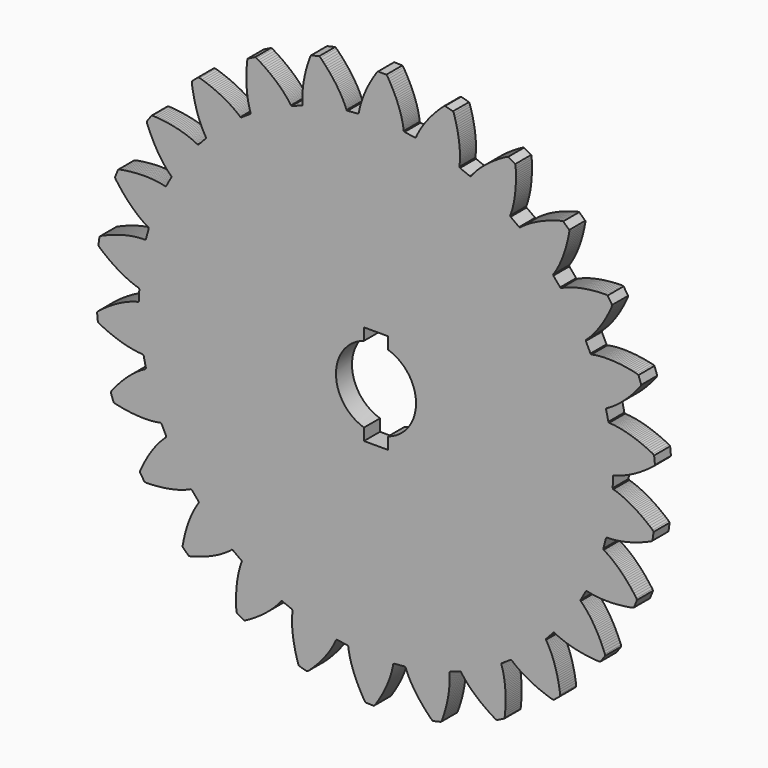
from build123d import *

# Parameters (mm, degrees)
F1_DEPTH = 5
F3_DEPTH = 5


with BuildPart() as f1:
    # F0 (on Front) → F1 (new body)
    with BuildSketch(Plane.XZ):
        Polygon((59.137695, -2.635742), (59.195801, -0.000977), (59.333496, 0.224121), (59.509765, 0.266113), (59.696289, 0.312988), (59.891113, 0.365234), (60.095703, 0.422851), (60.311035, 0.486328), (60.533691, 0.554687), (60.765625, 0.630859), (61.007324, 0.713379), (61.256836, 0.800781), (61.513672, 0.896972), (61.78125, 0.999023), (62.055664, 1.109863), (62.339844, 1.226562), (62.630371, 1.353515), (62.928711, 1.487793), (63.235351, 1.629394), (63.549316, 1.78125), (63.870605, 1.940918), (64.19873, 2.109375), (64.53418, 2.286621), (64.875976, 2.475586), (65.224121, 2.67334), (65.580078, 2.880371), (65.94043, 3.098144), (66.307129, 3.325683), (66.679199, 3.563965), (67.057617, 3.8125), (67.440918, 4.072754), (67.828613, 4.344238), (68.222168, 4.626465), (68.61914, 4.92041), (69.020508, 5.226074), (69.426269, 5.542969), (69.69043, 5.859863), (69.488769, 7.901367), (69.168457, 8.161133), (68.708496, 8.39209), (68.253906, 8.613769), (67.80664, 8.823242), (67.366211, 9.023437), (66.932129, 9.21289), (66.504883, 9.392578), (66.085937, 9.562988), (65.674316, 9.724121), (65.270019, 9.875), (64.873047, 10.017578), (64.485351, 10.152832), (64.104004, 10.277344), (63.73291, 10.394043), (63.36914, 10.503906), (63.013672, 10.605469), (62.666504, 10.69873), (62.330566, 10.785644), (62.001953, 10.865234), (61.682617, 10.938965), (61.373047, 11.005371), (61.072265, 11.064941), (60.780762, 11.119629), (60.499023, 11.167969), (60.227051, 11.210449), (59.96582, 11.248535), (59.712402, 11.282226), (59.470703, 11.310058), (59.238281, 11.334961), (59.015625, 11.35498), (58.803711, 11.371582), (58.601562, 11.384277), (58.410156, 11.393066), (58.228027, 11.399902), (58.050781, 11.592773), (57.476074, 14.166992), (57.555664, 14.41748), (57.717285, 14.5), (57.885742, 14.589844), (58.064453, 14.687011), (58.248535, 14.791504), (58.441406, 14.904297), (58.642578, 15.02539), (58.849609, 15.154297), (59.063476, 15.291504), (59.284668, 15.437011), (59.512695, 15.592285), (59.746582, 15.754394), (59.987305, 15.928222), (60.233887, 16.110351), (60.486328, 16.302734), (60.745117, 16.504394), (61.008301, 16.715332), (61.277344, 16.9375), (61.550293, 17.169922), (61.828613, 17.411621), (62.111328, 17.665039), (62.398437, 17.929687), (62.689453, 18.20459), (62.984375, 18.491699), (63.281738, 18.788086), (63.583984, 19.097168), (63.888183, 19.417969), (64.195801, 19.750488), (64.505859, 20.094238), (64.818847, 20.450683), (65.131836, 20.818847), (65.447265, 21.199707), (65.764648, 21.592285), (66.083496, 21.99707), (66.263183, 22.366699), (65.579101, 24.301758), (65.205566, 24.477051), (64.703125, 24.591797), (64.209961, 24.696777), (63.724609, 24.793945), (63.249023, 24.882324), (62.782226, 24.962402), (62.324219, 25.035644), (61.877441, 25.101074), (61.4375, 25.158691), (61.010254, 25.208984), (60.590332, 25.252929), (60.182129, 25.289062), (59.782226, 25.319824), (59.39209, 25.344238), (59.01416, 25.363769), (58.644531, 25.376465), (58.287109, 25.384765), (57.937988, 25.388183), (57.600586, 25.387207), (57.272461, 25.381347), (56.955566, 25.372558), (56.649902, 25.358886), (56.353515, 25.341308), (56.068847, 25.320801), (55.793945, 25.298828), (55.530762, 25.272461), (55.277344, 25.243652), (55.035644, 25.213867), (54.803711, 25.181152), (54.583008, 25.147461), (54.373535, 25.112793), (54.173828, 25.077636), (53.986328, 25.041015), (53.808594, 25.003906), (53.588867, 25.147461), (52.416504, 27.509765), (52.432617, 27.771484), (52.569336, 27.891113), (52.713379, 28.019043), (52.861816, 28.15625), (53.016601, 28.303222), (53.176269, 28.457519), (53.342285, 28.62207), (53.512207, 28.796875), (53.6875, 28.981933), (53.867187, 29.176269), (54.052246, 29.381347), (54.239746, 29.596191), (54.432617, 29.821777), (54.62793, 30.05664), (54.827148, 30.303222), (55.029785, 30.561523), (55.234863, 30.830566), (55.442871, 31.109863), (55.651855, 31.40039), (55.864746, 31.702148), (56.078613, 32.016601), (56.294433, 32.341308), (56.511719, 32.678222), (56.728027, 33.025879), (56.947265, 33.386719), (57.166504, 33.759277), (57.385254, 34.142578), (57.604004, 34.539551), (57.823242, 34.947754), (58.041015, 35.367676), (58.256836, 35.800293), (58.473144, 36.245605), (58.686035, 36.703125), (58.898437, 37.171875), (58.984863, 37.575683), (57.858398, 39.289551), (57.452637, 39.370605), (56.9375, 39.361328), (56.432617, 39.345703), (55.939453, 39.32373), (55.456543, 39.296386), (54.984375, 39.261719), (54.522949, 39.223144), (54.071777, 39.179199), (53.632324, 39.129883), (53.204101, 39.07666), (52.786133, 39.018066), (52.379883, 38.957031), (51.98584, 38.891113), (51.600586, 38.821289), (51.228515, 38.749511), (50.868164, 38.674316), (50.517578, 38.597168), (50.177246, 38.515625), (49.850097, 38.434082), (49.533691, 38.350097), (49.229004, 38.265136), (48.934082, 38.178711), (48.651367, 38.09082), (48.379883, 38.003906), (48.118652, 37.915527), (47.867676, 37.82666), (47.629394, 37.738769), (47.401855, 37.652344), (47.18457, 37.564941), (46.978027, 37.479492), (46.783203, 37.395996), (46.598144, 37.312988), (46.424316, 37.23291), (46.26123, 37.154297), (46.013183, 37.242676), (44.310058, 39.253906), (44.263672, 39.513183), (44.367676, 39.660644), (44.476074, 39.820312), (44.586914, 39.987793), (44.702148, 40.16748), (44.821289, 40.356445), (44.941406, 40.555664), (45.06543, 40.766601), (45.191894, 40.988281), (45.318847, 41.219238), (45.450195, 41.46289), (45.581543, 41.716308), (45.714355, 41.980957), (45.848144, 42.257324), (45.981933, 42.543945), (46.117187, 42.843261), (46.251953, 43.152344), (46.386719, 43.474121), (46.521484, 43.807129), (46.654785, 44.150879), (46.787109, 44.505859), (46.91748, 44.873535), (47.04834, 45.251953), (47.176758, 45.643066), (47.301758, 46.044433), (47.425781, 46.458496), (47.546875, 46.884277), (47.664062, 47.321289), (47.77832, 47.770019), (47.889648, 48.22998), (47.997558, 48.702636), (48.099609, 49.185547), (48.198242, 49.681152), (48.291504, 50.1875), (48.27832, 50.598633), (46.773926, 51.994629), (46.361816, 51.975097), (45.862793, 51.843261), (45.376953, 51.708008), (44.902344, 51.567871), (44.44043, 51.425293), (43.990234, 51.280273), (43.550781, 51.131347), (43.125, 50.981933), (42.709472, 50.828125), (42.30664, 50.673828), (41.915039, 50.51709), (41.535644, 50.36084), (41.167969, 50.201172), (40.811035, 50.042969), (40.467285, 49.884277), (40.133301, 49.724121), (39.812988, 49.564453), (39.502441, 49.405761), (39.204101, 49.247558), (38.916992, 49.090332), (38.640137, 48.934082), (38.375488, 48.780273), (38.121582, 48.627441), (37.878418, 48.477051), (37.645508, 48.328613), (37.424805, 48.183105), (37.213867, 48.041015), (37.013672, 47.901855), (36.824219, 47.766113), (36.645019, 47.633789), (36.474609, 47.504883), (36.314941, 47.380859), (36.165527, 47.260742), (36.02539, 47.145996), (35.76416, 47.171875), (33.62793, 48.717773), (33.521484, 48.957519), (33.586914, 49.126465), (33.654297, 49.306152), (33.721191, 49.496582), (33.790527, 49.69873), (33.86084, 49.910644), (33.930176, 50.133301), (34, 50.367676), (34.069824, 50.612304), (34.138183, 50.867676), (34.206543, 51.133789), (34.273926, 51.412597), (34.338867, 51.70166), (34.402344, 52.001465), (34.463379, 52.312011), (34.524902, 52.633301), (34.580566, 52.966797), (34.634765, 53.311035), (34.685058, 53.666504), (34.732422, 54.032226), (34.776855, 54.409668), (34.816406, 54.797851), (34.851562, 55.196777), (34.882812, 55.606933), (34.908691, 56.027344), (34.930176, 56.458984), (34.945312, 56.900879), (34.95459, 57.353027), (34.958984, 57.815429), (34.956055, 58.289551), (34.946777, 58.772949), (34.931152, 59.26709), (34.907715, 59.771972), (34.877441, 60.286621), (34.766601, 60.682617), (32.971191, 61.677246), (32.575195, 61.560058), (32.124512, 61.312988), (31.684082, 61.064453), (31.256836, 60.816894), (30.841797, 60.566894), (30.439453, 60.317383), (30.048828, 60.067871), (29.67041, 59.820312), (29.304687, 59.572265), (28.950195, 59.325683), (28.606933, 59.081054), (28.276855, 58.836914), (27.957031, 58.595215), (27.649414, 58.355957), (27.353515, 58.117676), (27.068359, 57.883301), (26.794433, 57.652344), (26.53125, 57.424316), (26.279297, 57.197754), (26.038086, 56.977051), (25.80664, 56.760254), (25.585937, 56.546386), (25.375976, 56.337402), (25.175781, 56.133301), (24.985351, 55.934082), (24.806152, 55.739746), (24.63623, 55.550781), (24.474609, 55.368164), (24.323242, 55.190429), (24.179687, 55.019043), (24.046387, 54.853027), (23.92041, 54.694824), (23.803711, 54.54248), (23.694824, 54.397461), (23.436523, 54.359863), (20.991699, 55.349609), (20.831055, 55.557129), (20.854492, 55.736816), (20.875488, 55.927246), (20.895996, 56.128418), (20.915527, 56.341308), (20.93164, 56.562988), (20.946289, 56.795898), (20.958984, 57.040527), (20.967285, 57.294433), (20.972656, 57.55957), (20.975586, 57.835449), (20.974121, 58.120117), (20.968262, 58.416992), (20.958984, 58.723144), (20.943359, 59.040039), (20.924316, 59.366699), (20.90039, 59.703613), (20.86914, 60.050781), (20.834472, 60.407715), (20.79248, 60.774414), (20.745117, 61.150879), (20.690918, 61.537109), (20.629883, 61.932617), (20.562012, 62.338379), (20.48584, 62.753418), (20.40332, 63.177246), (20.312012, 63.609863), (20.21289, 64.052246), (20.106445, 64.502441), (19.991211, 64.961914), (19.865234, 65.428711), (19.731933, 65.904785), (19.588867, 66.38916), (19.436035, 66.880371), (19.23291, 67.238769), (17.251953, 67.77539), (16.895996, 67.566894), (16.517578, 67.21875), (16.15039, 66.872558), (15.794922, 66.528808), (15.451172, 66.187988), (15.120605, 65.848633), (14.800293, 65.515136), (14.492676, 65.182617), (14.196777, 64.854004), (13.911133, 64.529785), (13.637207, 64.209961), (13.375, 63.893066), (13.122558, 63.583496), (12.880859, 63.276367), (12.649902, 62.975097), (12.429199, 62.679199), (12.21875, 62.388672), (12.017578, 62.10498), (11.827148, 61.825195), (11.645508, 61.552246), (11.473144, 61.285644), (11.310058, 61.025879), (11.156738, 60.773437), (11.010742, 60.526855), (10.874512, 60.288574), (10.745605, 60.057129), (10.625488, 59.832519), (10.512695, 59.616211), (10.407715, 59.407226), (10.310547, 59.207031), (10.219238, 59.01416), (10.13623, 58.82959), (10.059082, 58.653808), (9.989258, 58.487793), (9.746094, 58.387695), (7.13623, 58.765136), (6.930664, 58.926758), (6.909668, 59.108886), (6.885254, 59.29834), (6.856445, 59.499023), (6.824219, 59.708496), (6.787598, 59.929687), (6.745117, 60.158691), (6.69873, 60.398926), (6.645996, 60.646972), (6.588379, 60.905761), (6.52539, 61.17334), (6.455078, 61.451172), (6.378906, 61.736328), (6.29541, 62.032715), (6.205566, 62.336426), (6.109375, 62.649414), (6.003906, 62.971191), (5.892578, 63.300293), (5.771973, 63.638183), (5.644043, 63.984375), (5.506836, 64.338867), (5.361816, 64.701172), (5.208984, 65.070801), (5.045898, 65.447754), (4.872558, 65.832519), (4.69043, 66.223633), (4.499023, 66.622558), (4.297363, 67.027832), (4.085449, 67.439453), (3.863281, 67.856933), (3.629883, 68.281738), (3.38623, 68.711914), (3.131836, 69.148437), (2.866211, 69.588867), (2.583008, 69.888672), (0.53125, 69.93457), (0.23584, 69.647461), (-0.048828, 69.217285), (-0.323242, 68.793945), (-0.586426, 68.375976), (-0.837402, 67.962402), (-1.078613, 67.554199), (-1.309082, 67.152344), (-1.527832, 66.757324), (-1.736817, 66.367187), (-1.936035, 65.983886), (-2.125488, 65.607422), (-2.305664, 65.237304), (-2.475586, 64.875488), (-2.636719, 64.519531), (-2.788574, 64.172851), (-2.931641, 63.831543), (-3.067383, 63.499511), (-3.194336, 63.176269), (-3.311524, 62.859375), (-3.42334, 62.550293), (-3.526367, 62.250976), (-3.622559, 61.960449), (-3.712402, 61.677734), (-3.793945, 61.404297), (-3.868652, 61.138672), (-3.938477, 60.882812), (-4.002442, 60.636719), (-4.060059, 60.399902), (-4.111328, 60.172363), (-4.158203, 59.953125), (-4.200195, 59.745117), (-4.236817, 59.54541), (-4.269531, 59.356933), (-4.298828, 59.178222), (-4.511231, 59.023926), (-7.135742, 58.765136), (-7.374024, 58.873535), (-7.436524, 59.042969), (-7.50586, 59.223144), (-7.581055, 59.410156), (-7.663574, 59.606445), (-7.751953, 59.811523), (-7.847656, 60.024414), (-7.951172, 60.246582), (-8.060547, 60.475586), (-8.178711, 60.71289), (-8.305176, 60.957519), (-8.438477, 61.209961), (-8.581055, 61.469238), (-8.731934, 61.736328), (-8.892578, 62.010254), (-9.061035, 62.290527), (-9.240235, 62.577148), (-9.427735, 62.871094), (-9.625488, 63.17041), (-9.83252, 63.476562), (-10.050781, 63.787597), (-10.277344, 64.103515), (-10.515625, 64.426758), (-10.764649, 64.753906), (-11.023438, 65.084961), (-11.294434, 65.421386), (-11.575195, 65.763183), (-11.868164, 66.108398), (-12.172363, 66.457519), (-12.487793, 66.810547), (-12.816406, 67.166504), (-13.155274, 67.524902), (-13.507324, 67.888183), (-13.870606, 68.252441), (-14.217774, 68.476074), (-16.219727, 68.029785), (-16.438965, 67.680176), (-16.612793, 67.195312), (-16.776367, 66.717773), (-16.932129, 66.248535), (-17.077637, 65.786621), (-17.213867, 65.333496), (-17.34082, 64.888183), (-17.458496, 64.451172), (-17.569336, 64.023437), (-17.67041, 63.603027), (-17.764649, 63.191894), (-17.850586, 62.790527), (-17.929688, 62.397949), (-18, 62.01416), (-18.06543, 61.639648), (-18.123047, 61.275879), (-18.174805, 60.92041), (-18.220215, 60.575195), (-18.260742, 60.239746), (-18.292969, 59.913574), (-18.321289, 59.597168), (-18.345703, 59.29248), (-18.36377, 58.996094), (-18.37793, 58.710937), (-18.388672, 58.436035), (-18.39502, 58.171386), (-18.397949, 57.916992), (-18.396485, 57.67334), (-18.392578, 57.438965), (-18.385742, 57.216308), (-18.375977, 57.002929), (-18.364258, 56.801758), (-18.350586, 56.609863), (-18.335449, 56.429687), (-18.50586, 56.229004), (-20.991699, 55.349609), (-21.249512, 55.398437), (-21.350586, 55.54834), (-21.460449, 55.70459), (-21.579102, 55.870117), (-21.706055, 56.041015), (-21.840332, 56.219238), (-21.983887, 56.402344), (-22.137695, 56.592773), (-22.299805, 56.788086), (-22.470703, 56.991699), (-22.650879, 57.19873), (-22.842774, 57.411621), (-23.042481, 57.629394), (-23.253906, 57.852051), (-23.474121, 58.080078), (-23.705567, 58.311523), (-23.947266, 58.547851), (-24.200195, 58.787597), (-24.463379, 59.031738), (-24.737793, 59.277832), (-25.023438, 59.528808), (-25.319824, 59.781738), (-25.62793, 60.037109), (-25.947754, 60.29541), (-26.279785, 60.556152), (-26.62207, 60.818359), (-26.977051, 61.081543), (-27.344238, 61.347168), (-27.723145, 61.613281), (-28.114258, 61.879883), (-28.51709, 62.146972), (-28.932617, 62.414551), (-29.361328, 62.682129), (-29.802246, 62.950195), (-30.191895, 63.083496), (-32.028809, 62.17041), (-32.157227, 61.779785), (-32.209961, 61.26709), (-32.256348, 60.763672), (-32.293945, 60.270996), (-32.325684, 59.788574), (-32.348633, 59.315918), (-32.366211, 58.853027), (-32.375977, 58.399902), (-32.38086, 57.957519), (-32.378906, 57.526367), (-32.37207, 57.10498), (-32.359375, 56.693847), (-32.341309, 56.293945), (-32.318848, 55.904785), (-32.291992, 55.52539), (-32.260742, 55.158203), (-32.225098, 54.801758), (-32.1875, 54.455078), (-32.14502, 54.119629), (-32.100586, 53.79541), (-32.052246, 53.481933), (-32.001953, 53.179199), (-31.949219, 52.887695), (-31.89502, 52.606933), (-31.838867, 52.336914), (-31.781738, 52.078613), (-31.723145, 51.831543), (-31.663086, 51.594726), (-31.604492, 51.368164), (-31.543945, 51.153808), (-31.483887, 50.949707), (-31.424317, 50.755859), (-31.365235, 50.57373), (-31.307617, 50.401855), (-31.425293, 50.166504), (-33.62793, 48.717773), (-33.889649, 48.703613), (-34.024414, 48.824219), (-34.168945, 48.950195), (-34.323242, 49.082519), (-34.48584, 49.218261), (-34.660156, 49.357422), (-34.84375, 49.502441), (-35.038086, 49.65039), (-35.242188, 49.802734), (-35.456543, 49.958008), (-35.681641, 50.116211), (-35.917481, 50.276855), (-36.165527, 50.440429), (-36.423828, 50.606445), (-36.691406, 50.774902), (-36.971192, 50.944336), (-37.262695, 51.116211), (-37.56543, 51.288086), (-37.878906, 51.461426), (-38.205567, 51.635254), (-38.542481, 51.810547), (-38.891113, 51.985351), (-39.250977, 52.159668), (-39.624024, 52.333496), (-40.008301, 52.507324), (-40.403809, 52.680176), (-40.811035, 52.851074), (-41.231445, 53.020508), (-41.662598, 53.187988), (-42.106934, 53.353027), (-42.561035, 53.516601), (-43.029785, 53.677734), (-43.508789, 53.833984), (-44.000977, 53.988769), (-44.411133, 54.02539), (-45.977051, 52.69873), (-46.008789, 52.286621), (-45.937012, 51.77832), (-45.861328, 51.278808), (-45.779785, 50.790527), (-45.693848, 50.314453), (-45.604004, 49.849609), (-45.509766, 49.396972), (-45.411133, 48.95459), (-45.310059, 48.524902), (-45.20459, 48.105469), (-45.09668, 47.69873), (-44.986328, 47.302246), (-44.873535, 46.918457), (-44.758789, 46.544922), (-44.641602, 46.18457), (-44.523438, 45.834472), (-44.403809, 45.496582), (-44.28418, 45.169922), (-44.163086, 44.853515), (-44.041016, 44.549804), (-43.92041, 44.256836), (-43.799317, 43.974121), (-43.677735, 43.705078), (-43.557617, 43.445312), (-43.438965, 43.197265), (-43.320801, 42.959472), (-43.205078, 42.73291), (-43.09082, 42.51709), (-42.979492, 42.3125), (-42.869141, 42.117676), (-42.761719, 41.934082), (-42.657227, 41.761719), (-42.557129, 41.598144), (-42.458985, 41.444824), (-42.51709, 41.187988), (-44.30957, 39.253906), (-44.561035, 39.177246), (-44.720703, 39.262207), (-44.890625, 39.351562), (-45.071289, 39.441894), (-45.262695, 39.534179), (-45.464356, 39.629394), (-45.677246, 39.725097), (-45.901856, 39.822754), (-46.135742, 39.921386), (-46.382324, 40.020508), (-46.638184, 40.120605), (-46.90625, 40.220215), (-47.185059, 40.319824), (-47.475586, 40.419433), (-47.776856, 40.518066), (-48.088867, 40.615722), (-48.412598, 40.71289), (-48.748047, 40.807129), (-49.094238, 40.900879), (-49.452637, 40.992187), (-49.820801, 41.082031), (-50.201172, 41.16748), (-50.593262, 41.25), (-50.996094, 41.330078), (-51.411133, 41.407226), (-51.836426, 41.47998), (-52.273438, 41.548828), (-52.720703, 41.612304), (-53.180176, 41.671386), (-53.650879, 41.726074), (-54.132324, 41.775879), (-54.625, 41.819824), (-55.12793, 41.857422), (-55.642578, 41.88916), (-56.049805, 41.827148), (-57.251953, 40.165039), (-57.185059, 39.758789), (-56.994141, 39.279785), (-56.799317, 38.812988), (-56.604492, 38.358886), (-56.407227, 37.91748), (-56.208496, 37.488281), (-56.008789, 37.070312), (-55.807617, 36.664551), (-55.605469, 36.270996), (-55.40332, 35.889648), (-55.201172, 35.520019), (-54.999024, 35.161621), (-54.797852, 34.815918), (-54.597168, 34.481445), (-54.397949, 34.158203), (-54.198242, 33.846679), (-54.000977, 33.546875), (-53.806152, 33.259277), (-53.613281, 32.981933), (-53.42334, 32.714844), (-53.235352, 32.459472), (-53.050293, 32.215332), (-52.868164, 31.982422), (-52.689453, 31.759277), (-52.51416, 31.546386), (-52.34375, 31.342773), (-52.176758, 31.151367), (-52.013184, 30.970215), (-51.856445, 30.797363), (-51.703125, 30.635254), (-51.554688, 30.481933), (-51.412598, 30.338379), (-51.275391, 30.203613), (-51.143555, 30.07959), (-51.138184, 29.816894), (-52.416016, 27.509765), (-52.641113, 27.375), (-52.817383, 27.419922), (-53.003418, 27.464355), (-53.200684, 27.509765), (-53.40918, 27.553711), (-53.62793, 27.597656), (-53.857422, 27.63916), (-54.098145, 27.681152), (-54.34961, 27.719726), (-54.611817, 27.757812), (-54.884277, 27.79248), (-55.168945, 27.82666), (-55.463867, 27.855957), (-55.768067, 27.883789), (-56.084961, 27.906738), (-56.41211, 27.926758), (-56.749512, 27.943847), (-57.097656, 27.955566), (-57.455078, 27.963867), (-57.825195, 27.966308), (-58.205078, 27.963867), (-58.595215, 27.956054), (-58.995606, 27.943847), (-59.405762, 27.924804), (-59.826172, 27.899902), (-60.256836, 27.86914), (-60.697754, 27.831054), (-61.147949, 27.786133), (-61.60791, 27.734375), (-62.078125, 27.674316), (-62.556641, 27.606933), (-63.04541, 27.531738), (-63.543457, 27.448242), (-64.050781, 27.356445), (-64.432129, 27.197754), (-65.20166, 25.296875), (-65.037598, 24.91748), (-64.737305, 24.498047), (-64.438965, 24.091797), (-64.140137, 23.698242), (-63.842774, 23.316894), (-63.546875, 22.947265), (-63.252442, 22.589355), (-62.959961, 22.243652), (-62.67041, 21.909668), (-62.382813, 21.587402), (-62.098145, 21.276855), (-61.815918, 20.978515), (-61.537598, 20.689453), (-61.262695, 20.413574), (-60.991699, 20.147949), (-60.72461, 19.893554), (-60.461426, 19.648926), (-60.203125, 19.416015), (-59.948731, 19.192383), (-59.700195, 18.979492), (-59.456055, 18.776367), (-59.218262, 18.583008), (-58.984863, 18.400879), (-58.759277, 18.225586), (-58.53711, 18.062011), (-58.323731, 17.90625), (-58.114746, 17.759765), (-57.913574, 17.622558), (-57.719727, 17.492676), (-57.532715, 17.371582), (-57.352051, 17.258789), (-57.179199, 17.152832), (-57.013672, 17.055664), (-56.856934, 16.966308), (-56.788086, 16.711914), (-57.476074, 14.166992), (-57.66211, 13.981445), (-57.84375, 13.983886), (-58.036621, 13.982422), (-58.23877, 13.977539), (-58.451172, 13.971191), (-58.674317, 13.961914), (-58.907227, 13.947265), (-59.150391, 13.929199), (-59.403809, 13.907715), (-59.666992, 13.881836), (-59.941895, 13.850097), (-60.224121, 13.813965), (-60.518555, 13.772949), (-60.820313, 13.726074), (-61.133789, 13.673828), (-61.456055, 13.615234), (-61.787598, 13.550781), (-62.128906, 13.479492), (-62.478027, 13.40039), (-62.838379, 13.314941), (-63.206543, 13.222656), (-63.583008, 13.122558), (-63.968262, 13.013183), (-64.362305, 12.896484), (-64.765137, 12.771972), (-65.175781, 12.638672), (-65.594238, 12.496582), (-66.021485, 12.345215), (-66.455078, 12.184082), (-66.896485, 12.01416), (-67.345703, 11.834472), (-67.802246, 11.644043), (-68.266113, 11.442871), (-68.736328, 11.23291), (-69.06836, 10.987793), (-69.361328, 8.957519), (-69.111328, 8.629394), (-68.720215, 8.293945), (-68.331055, 7.971679), (-67.946777, 7.660156), (-67.567871, 7.359863), (-67.191895, 7.072754), (-66.820313, 6.794922), (-66.454102, 6.528808), (-66.092285, 6.274902), (-65.736817, 6.030761), (-65.385742, 5.797363), (-65.040527, 5.574219), (-64.702149, 5.361816), (-64.367676, 5.158203), (-64.041016, 4.96582), (-63.720215, 4.783203), (-63.40625, 4.60791), (-63.100586, 4.444336), (-62.799805, 4.288086), (-62.507324, 4.140625), (-62.222168, 4.002441), (-61.944336, 3.871094), (-61.675293, 3.748535), (-61.413574, 3.634765), (-61.159668, 3.527832), (-60.913574, 3.427734), (-60.676758, 3.335449), (-60.448242, 3.249511), (-60.229004, 3.171386), (-60.017578, 3.099121), (-59.814942, 3.032226), (-59.622559, 2.970703), (-59.438965, 2.915527), (-59.264649, 2.865722), (-59.136719, 2.635742), (-59.195801, -0.000977), (-59.333008, -0.22461), (-59.509277, -0.266602), (-59.695801, -0.313477), (-59.891113, -0.365235), (-60.096192, -0.422852), (-60.310547, -0.486817), (-60.532715, -0.555176), (-60.764649, -0.63086), (-61.006836, -0.712403), (-61.256836, -0.800781), (-61.514649, -0.897461), (-61.780762, -0.999024), (-62.055664, -1.109864), (-62.338867, -1.227539), (-62.629883, -1.354004), (-62.928223, -1.487793), (-63.234375, -1.629883), (-63.549317, -1.781739), (-63.869629, -1.940918), (-64.198242, -2.110352), (-64.533203, -2.287598), (-64.875, -2.476074), (-65.223633, -2.67334), (-65.578613, -2.881348), (-65.939942, -3.099121), (-66.305664, -3.325684), (-66.678223, -3.563965), (-67.056152, -3.813477), (-67.44043, -4.073242), (-67.828125, -4.344727), (-68.221192, -4.626953), (-68.618652, -4.92041), (-69.02002, -5.226074), (-69.42627, -5.542969), (-69.69043, -5.86084), (-69.48877, -7.901856), (-69.167969, -8.161133), (-68.708008, -8.392578), (-68.254395, -8.61377), (-67.805664, -8.824707), (-67.365723, -9.024414), (-66.932129, -9.213379), (-66.504883, -9.393555), (-66.085938, -9.563965), (-65.67334, -9.72461), (-65.269531, -9.875489), (-64.873047, -10.018067), (-64.484375, -10.152832), (-64.103516, -10.277344), (-63.731934, -10.39502), (-63.368652, -10.504883), (-63.013184, -10.604981), (-62.667481, -10.699219), (-62.329102, -10.785645), (-62.001465, -10.865723), (-61.681641, -10.938965), (-61.372559, -11.004883), (-61.071289, -11.06543), (-60.780274, -11.119629), (-60.498535, -11.167969), (-60.226074, -11.210938), (-59.964844, -11.248535), (-59.711914, -11.282715), (-59.470215, -11.310059), (-59.237793, -11.334961), (-59.015137, -11.355469), (-58.802735, -11.371582), (-58.601074, -11.384278), (-58.409668, -11.394043), (-58.227539, -11.400391), (-58.049805, -11.592774), (-57.476074, -14.166992), (-57.555664, -14.417481), (-57.716797, -14.5), (-57.886231, -14.589844), (-58.063477, -14.687989), (-58.248535, -14.791992), (-58.441406, -14.905274), (-58.641602, -15.026367), (-58.848633, -15.154297), (-59.062988, -15.291504), (-59.284668, -15.437989), (-59.512695, -15.592285), (-59.746094, -15.754883), (-59.987305, -15.928223), (-60.233887, -16.11084), (-60.486328, -16.302246), (-60.745117, -16.504883), (-61.007324, -16.715332), (-61.276367, -16.9375), (-61.549317, -17.169922), (-61.828125, -17.413086), (-62.110352, -17.665528), (-62.397949, -17.930176), (-62.688477, -18.20459), (-62.983399, -18.491699), (-63.28125, -18.788574), (-63.583985, -19.097656), (-63.888672, -19.418457), (-64.195801, -19.750977), (-64.50586, -20.094727), (-64.817871, -20.450196), (-65.13086, -20.818848), (-65.447266, -21.199707), (-65.764649, -21.592774), (-66.08252, -21.997559), (-66.262695, -22.367676), (-65.578125, -24.301758), (-65.205078, -24.477051), (-64.703125, -24.592285), (-64.209473, -24.697754), (-63.72461, -24.794434), (-63.248535, -24.882813), (-62.781738, -24.963867), (-62.324219, -25.035645), (-61.876465, -25.101563), (-61.437988, -25.158692), (-61.009766, -25.208985), (-60.590332, -25.25293), (-60.181152, -25.289551), (-59.782227, -25.320313), (-59.391602, -25.345215), (-59.013184, -25.364746), (-58.644531, -25.376953), (-58.285645, -25.385254), (-57.9375, -25.388672), (-57.600098, -25.387696), (-57.272461, -25.381836), (-56.955567, -25.372559), (-56.648926, -25.359863), (-56.353516, -25.342285), (-56.067871, -25.321778), (-55.793945, -25.297852), (-55.530274, -25.272949), (-55.277344, -25.244141), (-55.035156, -25.214844), (-54.803223, -25.181641), (-54.583008, -25.148926), (-54.373535, -25.112793), (-54.173828, -25.078613), (-53.986328, -25.040528), (-53.807129, -25.004883), (-53.588379, -25.148926), (-52.416016, -27.510742), (-52.432129, -27.771973), (-52.569336, -27.891602), (-52.712891, -28.02002), (-52.861817, -28.156738), (-53.016113, -28.303711), (-53.17627, -28.458008), (-53.341797, -28.623047), (-53.511719, -28.797852), (-53.6875, -28.98291), (-53.867188, -29.176758), (-54.051758, -29.381348), (-54.239746, -29.59668), (-54.431641, -29.822266), (-54.626953, -30.058106), (-54.827149, -30.304199), (-55.028809, -30.562012), (-55.234863, -30.830078), (-55.442383, -31.11084), (-55.652344, -31.399903), (-55.864746, -31.703125), (-56.078125, -32.016602), (-56.294434, -32.340821), (-56.511231, -32.679199), (-56.728027, -33.026856), (-56.946777, -33.386719), (-57.166016, -33.759766), (-57.384766, -34.143067), (-57.603516, -34.539551), (-57.822266, -34.947754), (-58.040039, -35.368653), (-58.257324, -35.80127), (-58.472656, -36.246094), (-58.686035, -36.703125), (-58.898438, -37.172363), (-58.983887, -37.576172), (-57.857422, -39.290039), (-57.452149, -39.370117), (-56.9375, -39.361817), (-56.432617, -39.346192), (-55.938477, -39.324219), (-55.455567, -39.296875), (-54.983399, -39.262207), (-54.521973, -39.22461), (-54.071289, -39.179199), (-53.632324, -39.13086), (-53.203613, -39.07666), (-52.785645, -39.019531), (-52.379883, -38.957031), (-51.984863, -38.891602), (-51.601074, -38.822754), (-51.228516, -38.750488), (-50.866699, -38.674805), (-50.51709, -38.597168), (-50.177246, -38.516602), (-49.84961, -38.434082), (-49.533203, -38.351074), (-49.228027, -38.265625), (-48.933594, -38.179199), (-48.650391, -38.091797), (-48.379395, -38.003906), (-48.117676, -37.916504), (-47.867676, -37.827637), (-47.629395, -37.739258), (-47.401367, -37.652832), (-47.184082, -37.56543), (-46.977539, -37.480469), (-46.782715, -37.395996), (-46.597656, -37.313965), (-46.424317, -37.23291), (-46.260742, -37.154297), (-46.012695, -37.243164), (-44.30957, -39.254395), (-44.262695, -39.513184), (-44.367188, -39.661133), (-44.475586, -39.820313), (-44.586914, -39.987793), (-44.70166, -40.167481), (-44.820313, -40.356934), (-44.941895, -40.556641), (-45.064453, -40.766602), (-45.191406, -40.988281), (-45.319336, -41.219727), (-45.449219, -41.462891), (-45.580567, -41.716309), (-45.713867, -41.981446), (-45.847656, -42.257324), (-45.981445, -42.544434), (-46.116211, -42.84375), (-46.250977, -43.152344), (-46.386231, -43.473633), (-46.520508, -43.807129), (-46.654297, -44.151367), (-46.78711, -44.506836), (-46.918457, -44.874024), (-47.047852, -45.252442), (-47.17627, -45.644043), (-47.30127, -46.04541), (-47.425293, -46.459473), (-47.546387, -46.885254), (-47.663086, -47.320801), (-47.777832, -47.77002), (-47.888672, -48.230957), (-47.99707, -48.70166), (-48.09961, -49.186524), (-48.197266, -49.680664), (-48.291016, -50.187012), (-48.277344, -50.600098), (-46.772461, -51.994629), (-46.360352, -51.975586), (-45.863281, -51.844238), (-45.377442, -51.708496), (-44.902344, -51.568848), (-44.44043, -51.42627), (-43.98877, -51.280274), (-43.550293, -51.131836), (-43.124024, -50.981446), (-42.708985, -50.828613), (-42.306641, -50.673828), (-41.914063, -50.518555), (-41.535645, -50.361328), (-41.166992, -50.202149), (-40.811035, -50.042481), (-40.466309, -49.884278), (-40.133301, -49.724121), (-39.812012, -49.564453), (-39.502442, -49.405274), (-39.203613, -49.247559), (-38.915527, -49.091309), (-38.639649, -48.935059), (-38.375, -48.78125), (-38.121582, -48.62793), (-37.878418, -48.477051), (-37.645508, -48.32959), (-37.424805, -48.184082), (-37.213379, -48.040528), (-37.013184, -47.902344), (-36.823242, -47.766602), (-36.644043, -47.634278), (-36.474121, -47.505371), (-36.313965, -47.381348), (-36.164551, -47.261231), (-36.024414, -47.146485), (-35.763672, -47.172363), (-33.62793, -48.718262), (-33.520508, -48.95752), (-33.586426, -49.127442), (-33.653809, -49.306153), (-33.721192, -49.497071), (-33.790527, -49.698242), (-33.860352, -49.910645), (-33.929199, -50.134278), (-33.999024, -50.367676), (-34.06836, -50.612305), (-34.137207, -50.868164), (-34.205567, -51.134766), (-34.273438, -51.413086), (-34.338379, -51.70166), (-34.401856, -52.001465), (-34.463867, -52.312012), (-34.523438, -52.634278), (-34.580078, -52.967285), (-34.634277, -53.311524), (-34.685059, -53.666504), (-34.732422, -54.033203), (-34.775879, -54.410645), (-34.81543, -54.79834), (-34.851563, -55.197266), (-34.882813, -55.607422), (-34.908692, -56.027344), (-34.929199, -56.458496), (-34.944336, -56.900879), (-34.954102, -57.352539), (-34.957031, -57.815918), (-34.955078, -58.290528), (-34.946289, -58.773438), (-34.931152, -59.268555), (-34.907715, -59.771485), (-34.877442, -60.286621), (-34.765625, -60.682617), (-32.971192, -61.677246), (-32.575195, -61.560547), (-32.123535, -61.312988), (-31.683594, -61.064942), (-31.256348, -60.816406), (-30.841797, -60.567383), (-30.439942, -60.317871), (-30.048828, -60.067871), (-29.670899, -59.820313), (-29.304688, -59.572754), (-28.949707, -59.326172), (-28.606934, -59.081055), (-28.276856, -58.837403), (-27.956543, -58.595703), (-27.648438, -58.355957), (-27.352539, -58.118164), (-27.067871, -57.883789), (-26.793945, -57.652832), (-26.530762, -57.424317), (-26.278809, -57.198731), (-26.03711, -56.977539), (-25.806152, -56.760254), (-25.585449, -56.547852), (-25.375488, -56.337891), (-25.175293, -56.134766), (-24.985352, -55.935059), (-24.805664, -55.740723), (-24.635254, -55.55127), (-24.473633, -55.368164), (-24.321777, -55.190918), (-24.179688, -55.019531), (-24.045899, -54.854004), (-23.919434, -54.694336), (-23.803223, -54.541504), (-23.694824, -54.398438), (-23.435059, -54.360352), (-20.991699, -55.349121), (-20.830078, -55.557617), (-20.853516, -55.737793), (-20.875, -55.928223), (-20.895996, -56.128906), (-20.915039, -56.341797), (-20.931641, -56.563477), (-20.946289, -56.796387), (-20.95752, -57.040528), (-20.966797, -57.294434), (-20.972656, -57.559571), (-20.975098, -57.835938), (-20.973145, -58.121094), (-20.967774, -58.416992), (-20.957031, -58.724121), (-20.942871, -59.040039), (-20.924317, -59.367676), (-20.898926, -59.70459), (-20.868164, -60.05127), (-20.833985, -60.40918), (-20.792969, -60.775391), (-20.745117, -61.151856), (-20.689942, -61.538086), (-20.628906, -61.934082), (-20.561035, -62.339356), (-20.48584, -62.753418), (-20.402832, -63.177735), (-20.312012, -63.609863), (-20.212891, -64.052246), (-20.105957, -64.502442), (-19.989258, -64.961914), (-19.864746, -65.428711), (-19.731934, -65.905274), (-19.588379, -66.389649), (-19.436035, -66.881348), (-19.232422, -67.239258), (-17.252442, -67.775879), (-16.896485, -67.567383), (-16.516602, -67.219727), (-16.150391, -66.873535), (-15.794434, -66.529785), (-15.451172, -66.188965), (-15.119629, -65.850098), (-14.800293, -65.514649), (-14.491699, -65.183106), (-14.196289, -64.854492), (-13.910156, -64.530274), (-13.637207, -64.210449), (-13.374512, -63.894531), (-13.12207, -63.583008), (-12.879883, -63.277344), (-12.648926, -62.975586), (-12.428223, -62.679688), (-12.218262, -62.389649), (-12.01709, -62.104981), (-11.82666, -61.825684), (-11.645508, -61.552735), (-11.473145, -61.286621), (-11.310059, -61.026367), (-11.15625, -60.773438), (-11.009766, -60.527344), (-10.874024, -60.289063), (-10.745606, -60.057129), (-10.624024, -59.833008), (-10.512207, -59.616211), (-10.407715, -59.407227), (-10.30957, -59.207031), (-10.21875, -59.014649), (-10.135742, -58.831055), (-10.059082, -58.654297), (-9.988281, -58.487305), (-9.745117, -58.388672), (-7.135742, -58.765137), (-6.929688, -58.928223), (-6.908203, -59.108399), (-6.884277, -59.297852), (-6.856445, -59.499024), (-6.824219, -59.708985), (-6.78711, -59.929688), (-6.745117, -60.158692), (-6.698731, -60.399414), (-6.645508, -60.647949), (-6.588379, -60.90625), (-6.524414, -61.174317), (-6.454102, -61.451172), (-6.378906, -61.736817), (-6.294922, -62.032715), (-6.205078, -62.337403), (-6.108887, -62.649903), (-6.003418, -62.970703), (-5.891113, -63.300781), (-5.770996, -63.638184), (-5.644531, -63.984863), (-5.506836, -64.338867), (-5.361817, -64.70166), (-5.208008, -65.070801), (-5.044434, -65.447754), (-4.872559, -65.83252), (-4.69043, -66.223633), (-4.498535, -66.623535), (-4.296875, -67.028809), (-4.084961, -67.438965), (-3.863281, -67.856934), (-3.629395, -68.282227), (-3.385742, -68.711914), (-3.131348, -69.148926), (-2.866211, -69.589356), (-2.58252, -69.88916), (-0.53125, -69.935059), (-0.23584, -69.647949), (0.049805, -69.21875), (0.324219, -68.794434), (0.585449, -68.375488), (0.83789, -67.962403), (1.079101, -67.555176), (1.309082, -67.152832), (1.52832, -66.756836), (1.737305, -66.367188), (1.936523, -65.984863), (2.126465, -65.607422), (2.305664, -65.238281), (2.476562, -64.875977), (2.636719, -64.52002), (2.789062, -64.172363), (2.932617, -63.83252), (3.067871, -63.500488), (3.194336, -63.17627), (3.3125, -62.859375), (3.423828, -62.550781), (3.527344, -62.251465), (3.623047, -61.960449), (3.712402, -61.678223), (3.793945, -61.404297), (3.869629, -61.139649), (3.938965, -60.883301), (4.002441, -60.637207), (4.060058, -60.399903), (4.111328, -60.172852), (4.158691, -59.954102), (4.200195, -59.745606), (4.237793, -59.546387), (4.269531, -59.356934), (4.29834, -59.178223), (4.512207, -59.024414), (7.13623, -58.765137), (7.375, -58.874024), (7.4375, -59.043946), (7.506348, -59.223633), (7.581543, -59.411133), (7.663574, -59.607422), (7.75293, -59.812012), (7.847656, -60.025391), (7.95166, -60.247071), (8.060547, -60.476074), (8.178711, -60.712891), (8.305176, -60.958008), (8.438965, -61.210449), (8.581543, -61.470703), (8.733398, -61.736328), (8.893555, -62.010254), (9.062012, -62.290528), (9.240723, -62.577637), (9.428223, -62.871094), (9.625488, -63.170899), (9.833496, -63.477051), (10.050781, -63.788086), (10.27832, -64.104004), (10.516113, -64.42627), (10.764648, -64.753906), (11.023437, -65.085938), (11.294433, -65.421875), (11.576172, -65.763184), (11.868164, -66.108399), (12.172851, -66.45752), (12.488769, -66.810547), (12.816406, -67.166992), (13.155273, -67.525879), (13.507812, -67.888184), (13.871582, -68.25293), (14.217773, -68.476074), (16.220703, -68.030274), (16.438965, -67.680664), (16.612793, -67.195313), (16.777832, -66.71875), (16.932129, -66.248535), (17.078125, -65.787598), (17.213867, -65.333496), (17.34082, -64.888184), (17.458984, -64.45166), (17.569336, -64.022949), (17.671387, -63.603516), (17.765137, -63.192871), (17.851562, -62.790528), (17.929687, -62.398438), (18.000488, -62.015137), (18.06543, -61.640625), (18.123047, -61.275879), (18.175293, -60.920899), (18.220215, -60.575684), (18.260742, -60.239746), (18.293945, -59.914063), (18.321777, -59.598145), (18.346191, -59.292969), (18.364258, -58.997071), (18.378418, -58.711426), (18.388672, -58.436035), (18.395508, -58.171875), (18.397949, -57.916992), (18.396484, -57.673828), (18.393066, -57.439942), (18.385742, -57.217285), (18.376953, -57.004395), (18.364258, -56.802246), (18.351074, -56.610352), (18.335937, -56.429199), (18.505859, -56.229004), (20.991699, -55.349121), (21.25, -55.398926), (21.351074, -55.548828), (21.461426, -55.705567), (21.579101, -55.870117), (21.706055, -56.041016), (21.84082, -56.219238), (21.984375, -56.402832), (22.137695, -56.592285), (22.299805, -56.789551), (22.470703, -56.992188), (22.651855, -57.198731), (22.842285, -57.41211), (23.042969, -57.63086), (23.253418, -57.853028), (23.474609, -58.081543), (23.706055, -58.312012), (23.947265, -58.54834), (24.200195, -58.788086), (24.464355, -59.032227), (24.737793, -59.278321), (25.023926, -59.529785), (25.320801, -59.782715), (25.628418, -60.038086), (25.947754, -60.295899), (26.279785, -60.556641), (26.623047, -60.819336), (26.978027, -61.08252), (27.344238, -61.34668), (27.723144, -61.613281), (28.114746, -61.88086), (28.517578, -62.147949), (28.933105, -62.415039), (29.361816, -62.682617), (29.802246, -62.950684), (30.192871, -63.083985), (32.029297, -62.170899), (32.157715, -61.779297), (32.210937, -61.267578), (32.256836, -60.764649), (32.294922, -60.271485), (32.325683, -59.789551), (32.348633, -59.316895), (32.365722, -58.853028), (32.376465, -58.400391), (32.381347, -57.95752), (32.379883, -57.526367), (32.37207, -57.104981), (32.360351, -56.694824), (32.34082, -56.294922), (32.319824, -55.904785), (32.29248, -55.525879), (32.26123, -55.157715), (32.225586, -54.801758), (32.1875, -54.455078), (32.145019, -54.120606), (32.100586, -53.79541), (32.052734, -53.481934), (32.001953, -53.179688), (31.950195, -52.888184), (31.895508, -52.607422), (31.839844, -52.337891), (31.782226, -52.078613), (31.723633, -51.831543), (31.664062, -51.595215), (31.603515, -51.369141), (31.543945, -51.153809), (31.484375, -50.950196), (31.424805, -50.756836), (31.365234, -50.574219), (31.308594, -50.401367), (31.424805, -50.166504), (33.62793, -48.718262), (33.890137, -48.702637), (34.024414, -48.824707), (34.169433, -48.951172), (34.323242, -49.08252), (34.486816, -49.218262), (34.660156, -49.35791), (34.844726, -49.503418), (35.038574, -49.650879), (35.242187, -49.802735), (35.457519, -49.958496), (35.682129, -50.116211), (35.918457, -50.277344), (36.165527, -50.44043), (36.423828, -50.606446), (36.692383, -50.774903), (36.97168, -50.944824), (37.263183, -51.116699), (37.565918, -51.288574), (37.879394, -51.461426), (38.205566, -51.636719), (38.542969, -51.810059), (38.891601, -51.985352), (39.251953, -52.159668), (39.624512, -52.333985), (40.008789, -52.508301), (40.40332, -52.680664), (40.811035, -52.851074), (41.231445, -53.020996), (41.663086, -53.188477), (42.105957, -53.354004), (42.562012, -53.516602), (43.029785, -53.677246), (43.509765, -53.834473), (44.001465, -53.989258), (44.411621, -54.025879), (45.977539, -52.699219), (46.008789, -52.288086), (45.936523, -51.778321), (45.862305, -51.279297), (45.779785, -50.791504), (45.694336, -50.31543), (45.604004, -49.850098), (45.509765, -49.396973), (45.412109, -48.955078), (45.30957, -48.524903), (45.205078, -48.106446), (45.097656, -47.698731), (44.987793, -47.302735), (44.874023, -46.918946), (44.758789, -46.544922), (44.641601, -46.184571), (44.523926, -45.834473), (44.404785, -45.497071), (44.284668, -45.169434), (44.163086, -44.853516), (44.041504, -44.549805), (43.92041, -44.256836), (43.799316, -43.975098), (43.678222, -43.705567), (43.558594, -43.445801), (43.439453, -43.198242), (43.321289, -42.959961), (43.205078, -42.733399), (43.09082, -42.517578), (42.97998, -42.3125), (42.869629, -42.118164), (42.762695, -41.934571), (42.658203, -41.762207), (42.557617, -41.598145), (42.459961, -41.444336), (42.518066, -41.188965), (44.310058, -39.254395), (44.560547, -39.177246), (44.720703, -39.263184), (44.891113, -39.351563), (45.072265, -39.44336), (45.262695, -39.534668), (45.464844, -39.629883), (45.678711, -39.725586), (45.902344, -39.823242), (46.13623, -39.920899), (46.382324, -40.020508), (46.638183, -40.120606), (46.906738, -40.220215), (47.185058, -40.320801), (47.476562, -40.419922), (47.776367, -40.518555), (48.089355, -40.615723), (48.413574, -40.712891), (48.749023, -40.807129), (49.094726, -40.901367), (49.452637, -40.992188), (49.821777, -41.082031), (50.20166, -41.167481), (50.59375, -41.250488), (50.99707, -41.331055), (51.411621, -41.407715), (51.837402, -41.479981), (52.273926, -41.548828), (52.72168, -41.61377), (53.180664, -41.672363), (53.651367, -41.727051), (54.132324, -41.775879), (54.625488, -41.820801), (55.128418, -41.857422), (55.643066, -41.88916), (56.051269, -41.827637), (57.252441, -40.165039), (57.185058, -39.758789), (56.99414, -39.279785), (56.800781, -38.813477), (56.60498, -38.359863), (56.407715, -37.918457), (56.208984, -37.488281), (56.008789, -37.070313), (55.807617, -36.664551), (55.606933, -36.271973), (55.404297, -35.889649), (55.20166, -35.520508), (55, -35.16211), (54.79834, -34.815918), (54.598144, -34.482422), (54.398437, -34.158203), (54.199219, -33.847168), (54.001953, -33.547852), (53.807617, -33.259278), (53.614258, -32.981446), (53.42334, -32.715332), (53.23584, -32.459961), (53.050293, -32.215332), (52.868652, -31.98291), (52.689453, -31.759278), (52.514648, -31.546387), (52.344238, -31.344238), (52.176758, -31.152344), (52.01416, -30.970215), (51.856933, -30.797852), (51.703125, -30.635254), (51.554687, -30.48291), (51.413086, -30.338867), (51.275879, -30.20459), (51.144531, -30.07959), (51.13916, -29.816895), (52.416504, -27.510742), (52.641601, -27.375488), (52.817383, -27.419922), (53.003906, -27.465821), (53.201172, -27.510254), (53.40918, -27.554199), (53.628418, -27.597656), (53.857422, -27.639649), (54.098633, -27.681641), (54.350586, -27.720215), (54.612305, -27.757813), (54.884277, -27.793457), (55.169433, -27.826172), (55.464355, -27.856446), (55.768066, -27.884278), (56.084961, -27.906738), (56.412109, -27.927246), (56.749512, -27.944336), (57.097656, -27.955567), (57.456543, -27.963379), (57.826172, -27.966309), (58.206055, -27.964356), (58.595215, -27.957031), (58.995605, -27.944336), (59.405762, -27.925293), (59.827148, -27.900391), (60.257324, -27.869629), (60.697754, -27.832031), (61.148437, -27.786133), (61.608398, -27.734375), (62.078125, -27.674805), (62.557617, -27.606934), (63.046387, -27.532227), (63.543457, -27.448242), (64.050781, -27.355957), (64.432129, -27.197754), (65.20166, -25.296387), (65.038086, -24.917481), (64.738281, -24.499512), (64.438965, -24.092285), (64.140137, -23.698731), (63.842773, -23.316895), (63.547363, -22.947754), (63.252441, -22.589356), (62.960449, -22.244141), (62.669922, -21.910645), (62.382812, -21.588379), (62.099121, -21.277344), (61.816894, -20.978516), (61.537597, -20.69043), (61.263183, -20.413574), (60.991699, -20.148438), (60.724609, -19.894043), (60.461914, -19.649414), (60.203125, -19.416504), (59.949707, -19.192871), (59.700683, -18.979492), (59.456055, -18.776856), (59.218262, -18.583985), (58.985351, -18.400391), (58.759765, -18.226563), (58.539062, -18.0625), (58.324219, -17.90625), (58.115722, -17.760254), (57.914062, -17.623047), (57.719726, -17.493164), (57.532715, -17.372559), (57.352051, -17.258789), (57.179687, -17.153809), (57.014648, -17.055664), (56.857422, -16.966309), (56.788086, -16.712403), (57.476074, -14.166992), (57.662597, -13.981446), (57.844726, -13.983399), (58.036621, -13.982422), (58.239258, -13.978516), (58.452148, -13.97168), (58.674316, -13.962403), (58.907715, -13.947754), (59.151367, -13.930176), (59.404785, -13.907715), (59.667969, -13.881836), (59.941406, -13.850586), (60.225586, -13.814942), (60.518555, -13.773438), (60.822265, -13.727051), (61.134277, -13.673828), (61.456543, -13.615235), (61.788086, -13.55127), (62.128906, -13.479492), (62.479492, -13.400879), (62.838379, -13.315918), (63.206055, -13.222656), (63.583008, -13.122559), (63.968262, -13.013672), (64.362793, -12.897461), (64.766113, -12.772461), (65.175781, -12.638672), (65.594238, -12.496582), (66.020996, -12.345215), (66.455566, -12.184082), (66.896972, -12.01416), (67.346191, -11.834961), (67.803222, -11.644531), (68.265625, -11.442871), (68.736816, -11.23291), (69.068359, -10.988281), (69.36084, -8.95752), (69.111328, -8.629883), (68.720703, -8.294434), (68.332031, -7.97168), (67.947754, -7.660156), (67.567871, -7.36084), (67.192383, -7.072754), (66.821289, -6.794922), (66.454101, -6.529785), (66.092285, -6.274903), (65.736816, -6.031739), (65.38623, -5.79834), (65.040527, -5.574707), (64.702148, -5.361817), (64.367676, -5.158692), (64.041504, -4.966309), (63.720703, -4.783692), (63.407226, -4.608887), (63.100586, -4.444336), (62.799805, -4.288086), (62.507812, -4.141114), (62.222656, -4.002442), (61.944824, -3.871582), (61.675293, -3.749512), (61.414062, -3.634766), (61.160156, -3.527832), (60.914062, -3.428223), (60.676758, -3.336426), (60.449219, -3.250977), (60.229004, -3.171387), (60.018066, -3.099121), (59.815918, -3.032227), (59.623047, -2.970703), (59.439453, -2.915528), (59.264648, -2.866211), align=None)
    extrude(amount=F1_DEPTH)

    # F2 (on face) → F3 (cut)
    with BuildSketch(Plane.XZ.offset(5)):
        with BuildLine():
            ThreePointArc((3, -9.539392), (8.062258, -5.91608), (10, 0))
            ThreePointArc((10, 0), (8.062258, 5.91608), (3, 9.539392))
            Line((3, 9.539392), (3, 6.5))
            Line((3, 6.5), (-3, 6.5))
            Line((-3, 6.5), (-3, 9.539392))
            ThreePointArc((-3, 9.539392), (-10, 0), (-3, -9.539392))
            Line((-3, -9.539392), (-3, -6.5))
            Line((-3, -6.5), (3, -6.5))
            Line((3, -6.5), (3, -9.539392))
        make_face()
        with BuildLine():
            ThreePointArc((-3, 9.539392), (0, 10), (3, 9.539392))
            Line((3, 9.539392), (3, 12.5))
            Line((3, 12.5), (-3, 12.5))
            Line((-3, 12.5), (-3, 9.539392))
        make_face()
        with BuildLine():
            Line((3, 6.5), (3, 9.539392))
            ThreePointArc((3, 9.539392), (0, 10), (-3, 9.539392))
            Line((-3, 9.539392), (-3, 6.5))
            Line((-3, 6.5), (3, 6.5))
        make_face()
        with BuildLine():
            ThreePointArc((-3, -9.539392), (0, -10), (3, -9.539392))
            Line((3, -9.539392), (3, -6.5))
            Line((3, -6.5), (-3, -6.5))
            Line((-3, -6.5), (-3, -9.539392))
        make_face()
        with BuildLine():
            Line((3, -12.5), (3, -9.539392))
            ThreePointArc((3, -9.539392), (0, -10), (-3, -9.539392))
            Line((-3, -9.539392), (-3, -12.5))
            Line((-3, -12.5), (3, -12.5))
        make_face()
    extrude(amount=-F3_DEPTH, mode=Mode.SUBTRACT)


solid = f1.part
